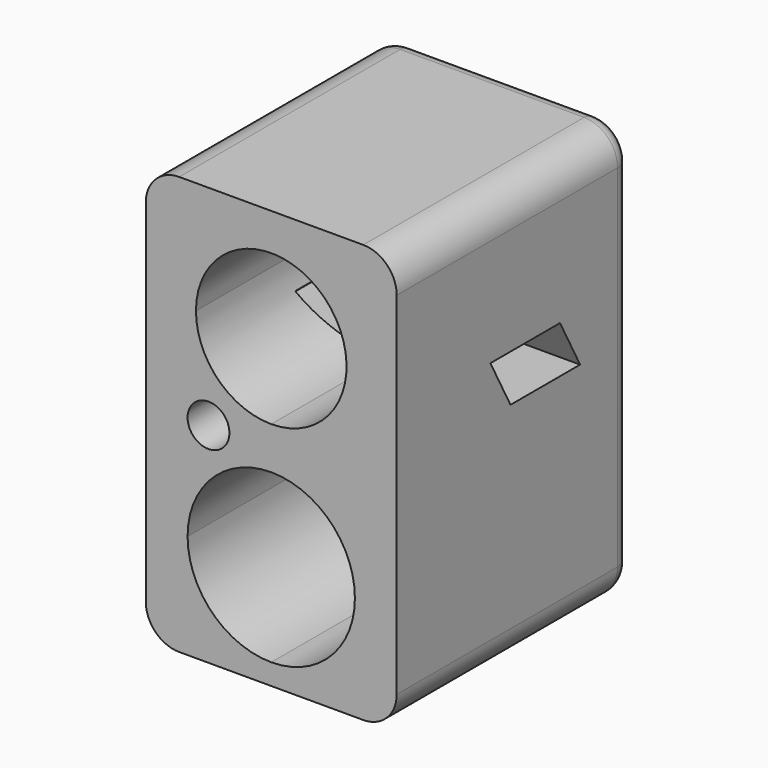
from build123d import *

# Parameters (mm, degrees)
F1_DEPTH = 44.45
F3_DEPTH = 44.451
F5_DEPTH = 38.101
F6_R     = 5.08
F7_R     = 5.08
F8_R     = 2.54


with BuildPart() as f1:
    # F0 (on Front) → F1 (new body)
    with BuildSketch(Plane.XZ):
        Polygon((19.05, -31.75), (19.05, 31.75), (-19.05, 31.75), (-19.05, 0), (-19.05, -31.75), align=None)
        with BuildLine():
            ThreePointArc((-6.35, 0), (-9.525, -3.175), (-12.7, 0))
            ThreePointArc((-12.7, 0), (-9.525, 3.175), (-6.35, 0))
        make_face(mode=Mode.SUBTRACT)
    extrude(amount=F1_DEPTH)

    # F2 (on face) → F3 (cut, through all)
    with BuildSketch(Plane(origin=(0, 0, 0), x_dir=(-1, 0, 0), z_dir=(0, 1, 0))):
        with BuildLine():
            ThreePointArc((-12.7, -15.875), (-8.980256, -24.855256), (0, -28.575))
            Line((0, -28.575), (0, -15.875))
            Line((0, -15.875), (-12.7, -15.875))
        make_face()
        with BuildLine():
            Line((0, -15.875), (0, -28.575))
            ThreePointArc((0, -28.575), (8.980256, -24.855256), (12.7, -15.875))
            Line((12.7, -15.875), (0, -15.875))
        make_face()
        with BuildLine():
            ThreePointArc((11.43, 14.6812), (-8.082231, 22.763431), (0, 3.2512))
            ThreePointArc((0, 3.2512), (8.082231, 6.598969), (11.43, 14.6812))
        make_face()
        with BuildLine():
            Line((-12.7, -15.875), (0, -15.875))
            Line((0, -15.875), (0, -3.175))
            ThreePointArc((0, -3.175), (-8.980256, -6.894744), (-12.7, -15.875))
        make_face()
        with BuildLine():
            Line((0, -3.175), (0, -15.875))
            Line((0, -15.875), (12.7, -15.875))
            ThreePointArc((12.7, -15.875), (8.980256, -6.894744), (0, -3.175))
        make_face()
    extrude(amount=-F3_DEPTH, mode=Mode.SUBTRACT)

    # F4 (on face) → F5 (cut, through all)
    with BuildSketch(Plane.YZ.offset(19.05)):
        Polygon((-22.86, 3.2512), (-9.652, 3.2512), (-13.462, 10.3632), (-26.67, 10.3632), align=None)
    extrude(amount=-F5_DEPTH, mode=Mode.SUBTRACT)

    # F6
    f6_edges = [f1.edges().sort_by_distance(p)[0] for p in [
        (-19.05, -22.225, 31.75),
        (19.05, -22.225, 31.75),
    ]]
    fillet(f6_edges, radius=F6_R)

    # F7
    f7_edges = [f1.edges().sort_by_distance(p)[0] for p in [
        (19.05, -22.225, -31.75),
        (-19.05, -22.225, -31.75),
    ]]
    fillet(f7_edges, radius=F7_R)

    # F8
    f8_edges = [f1.edges().sort_by_distance(p)[0] for p in [
        (0, 0, 31.75),
    ]]
    fillet(f8_edges, radius=F8_R)


solid = f1.part
